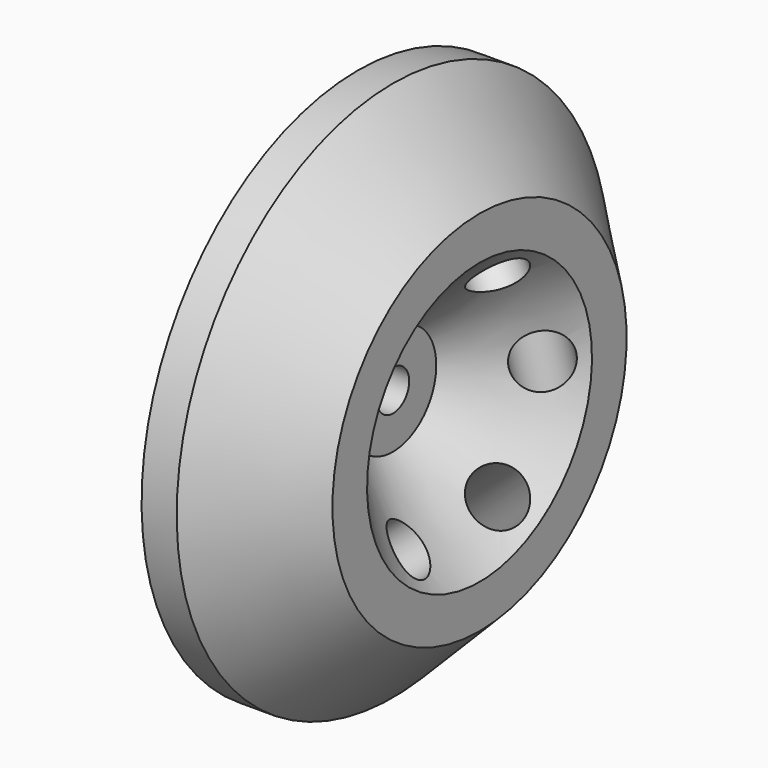
from build123d import *

# Parameters (mm, degrees)
F10_R     = 6.35
F15_DEPTH = 67.174456
F11_R     = 6.35
F16_DEPTH = 67.174457
F14_R     = 6.35
F17_DEPTH = 50.739447
F13_R     = 6.35
F18_DEPTH = 50.739447
F9_R      = 6.35
F19_DEPTH = 67.174457
F12_R     = 6.35
F20_DEPTH = 67.174457
F21_D     = 9.525


with BuildPart() as f1:
    # F0 (on Front) → F1 (revolve)
    with BuildSketch(Plane.XZ):
        Polygon((-8.255, 0), (0, 0), (0, 12.7), (20.32, 33.02), (20.32, 43.18), (0, 63.5), (-8.255, 63.5), align=None)
    revolve(axis=Axis((-4.1275, 0, 0), (1, 0, 0)))

    # F10 (on face) → F15 (cut, through all)
    with BuildSketch(Plane(origin=(0, 0, 0), x_dir=(-0.267261, 0.935414, 0.231455), z_dir=(0.707107, 0.353553, -0.612372))):
        with Locations((-10.800335, 26.455309)):
            Circle(F10_R)
    extrude(amount=-F15_DEPTH, mode=Mode.SUBTRACT)

    # F11 (on face) → F16 (cut, through all)
    with BuildSketch(Plane(origin=(0, 0, 0), x_dir=(0.267261, 0.935414, -0.231455), z_dir=(0.707107, -0.353553, -0.612372))):
        with Locations((10.800335, 26.455309)):
            Circle(F11_R)
    extrude(amount=-F16_DEPTH, mode=Mode.SUBTRACT)

    # F14 (on face) → F17 (cut, through all)
    with BuildSketch(Plane(origin=(0, 0, 0), x_dir=(-0.707107, 0.707107, 0), z_dir=(0.707107, 0.707107, 0))):
        with Locations((-28.575, 0)):
            Circle(F14_R)
    extrude(amount=-F17_DEPTH, mode=Mode.SUBTRACT)

    # F13 (on face) → F18 (cut, through all)
    with BuildSketch(Plane(origin=(0, 0, 0), x_dir=(-0.707107, -0.707107, 0), z_dir=(-0.707107, 0.707107, 0))):
        with Locations((-28.575, 0)):
            Circle(F13_R)
    extrude(amount=F18_DEPTH, mode=Mode.SUBTRACT)

    # F9 (on face) → F19 (cut, through all)
    with BuildSketch(Plane(origin=(0, 0, 0), x_dir=(0.267261, 0.935414, 0.231455), z_dir=(0.707107, -0.353553, 0.612372))):
        with Locations((10.800335, -26.455309)):
            Circle(F9_R)
    extrude(amount=-F19_DEPTH, mode=Mode.SUBTRACT)

    # F12 (on face) → F20 (cut, through all)
    with BuildSketch(Plane(origin=(0, 0, 0), x_dir=(-0.267261, 0.935414, -0.231455), z_dir=(0.707107, 0.353553, 0.612372))):
        with Locations((-10.800335, -26.455309)):
            Circle(F12_R)
    extrude(amount=-F20_DEPTH, mode=Mode.SUBTRACT)

    # F21 (through all)
    with Locations(Plane.YZ):
        with Locations((0, 0)):
            Hole(F21_D / 2)


solid = f1.part
